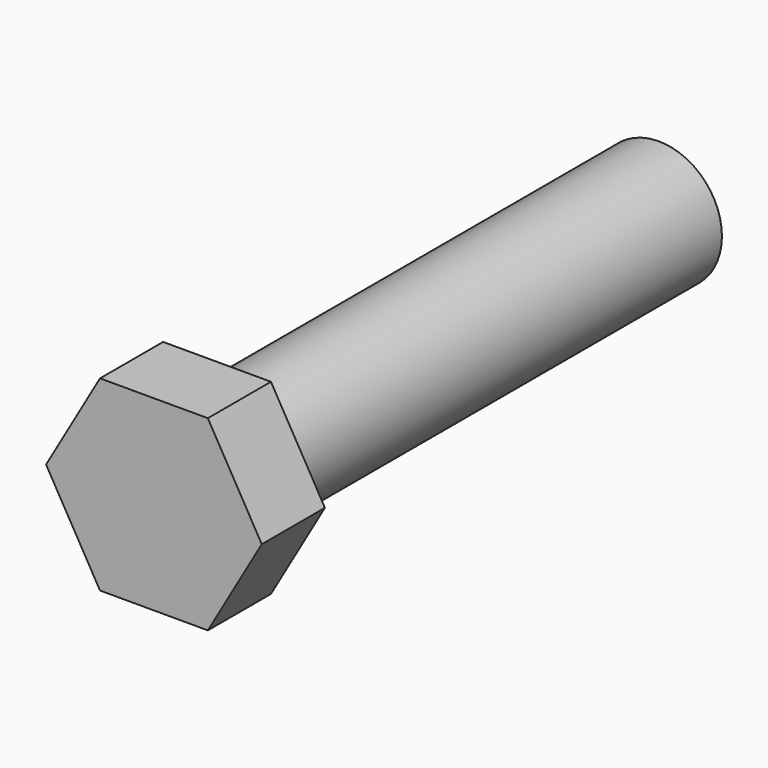
from build123d import *

# Parameters (mm, degrees)
F0_R     = 6.35
F1_DEPTH = 55.5625
F3_DEPTH = 7.9375


with BuildPart() as f1:
    # F0 (on Front) → F1 (new body)
    with BuildSketch(Plane.XZ):
        Circle(F0_R)
    extrude(amount=-F1_DEPTH)

    # F2 (on face) → F3 (join)
    with BuildSketch(Plane.XZ):
        Polygon((5.425938, 9.398), (-5.425938, 9.398), (-10.851876, 0), (-5.425938, -9.398), (5.425938, -9.398), (10.851876, 0), align=None)
    extrude(amount=F3_DEPTH)


solid = f1.part
